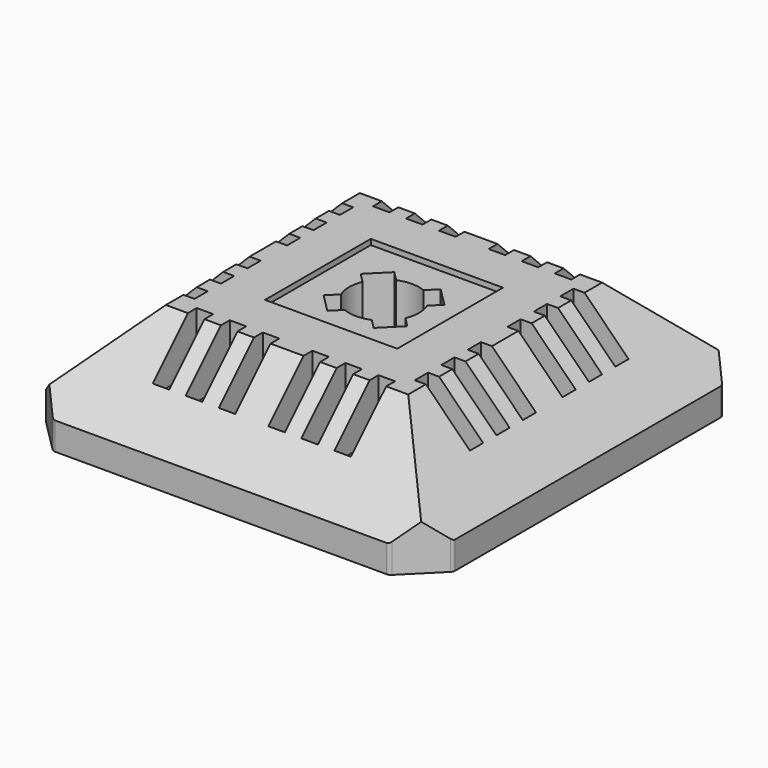
from build123d import *

# Parameters (mm, degrees)
F1_DEPTH  = 20
F3_START  = -15
F3_DEPTH  = 5
F4_R      = 6.35
F5_DEPTH  = 20
F7_DEPTH  = 37
F9_DEPTH  = 37
F10_W     = 10
F10_H     = 3
F10_W_2   = 3
F10_H_2   = 10
F11_DEPTH = 20
F12_DEPTH = 32
F14_DEPTH = 15
F15_W     = 12
F15_H     = 12
F16_DEPTH = 1
F18_DEPTH = 10
F19_R     = 1


with BuildPart() as f1:
    # F0 (on Top) → F1 (new body)
    with BuildSketch(Plane.XY):
        Polygon((-37, 0), (0, 0), (0, 37), (-30.5, 37), (-37, 30.5), align=None)
    extrude(amount=F1_DEPTH)

    # F2 (on face) → F3 (cut)
    with BuildSketch(Plane.XY.offset(20).offset(F3_START)):
        Polygon((-23.2141089603, 26.60822151), (-29.9316233816, 33.3257359313), (-33.3257359313, 29.9316233816), (-26.60822151, 23.2141089603), align=None)
    extrude(amount=-F3_DEPTH, mode=Mode.SUBTRACT)

    # F4 (on face) → F5 (cut, through all)
    with BuildSketch(Plane(origin=(0, 0, 0), x_dir=(1, 0, 0), z_dir=(0, 0, -1))):
        Circle(F4_R)
    extrude(amount=-F5_DEPTH, mode=Mode.SUBTRACT)

    # F6 (on face) → F7 (cut, through all)
    with BuildSketch(Plane.XZ):
        Polygon((-22, 20), (-37, 20), (-37, 5), align=None)
    extrude(amount=-F7_DEPTH, mode=Mode.SUBTRACT)

    # F8 (on face) → F9 (cut, through all)
    with BuildSketch(Plane.YZ):
        Polygon((37, 20), (22, 20), (37, 5), align=None)
    extrude(amount=-F9_DEPTH, mode=Mode.SUBTRACT)

    # F10 (on face) → F11 (cut, through all)
    with BuildSketch(Plane(origin=(0, 0, 0), x_dir=(1, 0, 0), z_dir=(0, 0, -1))):
        with Locations((-25, -4.5)):
            Rectangle(F10_W, F10_H)
        with Locations((-4.5, -25)):
            Rectangle(F10_W_2, F10_H_2)
        with Locations((-25, -10.5)):
            Rectangle(F10_W, F10_H)
        with Locations((-25, -16.5)):
            Rectangle(F10_W, F10_H)
        with Locations((-10.5, -25)):
            Rectangle(F10_W_2, F10_H_2)
        with Locations((-16.5, -25)):
            Rectangle(F10_W_2, F10_H_2)
    extrude(amount=-F11_DEPTH, mode=Mode.SUBTRACT)

    # F12 (cut): a face of the model
    f12_faces = [f1.faces().sort_by_distance(p)[0] for p in [
        (-24.9111652352, 24.9111652352, 2.5),
    ]]
    extrude(f12_faces, amount=-F12_DEPTH, mode=Mode.SUBTRACT)

    # F13 (on face) → F14 (cut, through all)
    with BuildSketch(Plane(origin=(0, 0, 5), x_dir=(1, 0, 0), z_dir=(0, 0, -1))):
        Polygon((-5.4800775542, -2.0859650045), (-7.6013978978, -4.2072853481), (-4.2072853481, -7.6013978978), (-2.0859650045, -5.4800775542), align=None)
    extrude(amount=-F14_DEPTH, mode=Mode.SUBTRACT)

    # F15 (on face) → F16 (cut)
    with BuildSketch(Plane.XY.offset(20)):
        with Locations((-6, 6)):
            Rectangle(F15_W, F15_H)
    extrude(amount=-F16_DEPTH, mode=Mode.SUBTRACT)

    # F17 (on face) → F18 (join)
    with BuildSketch(Plane(origin=(0, 0, 0), x_dir=(1, 0, 0), z_dir=(0, 0, -1))):
        with BuildLine():
            ThreePointArc((-27.9379781838, -6), (-28.2174279403, -4.5063716486), (-28.4170833303, -3))
            Line((-28.4170833303, -3), (-30, -3))
            Line((-30, -3), (-30, -6))
            Line((-30, -6), (-27.9379781838, -6))
        make_face()
        with BuildLine():
            Line((-27.1206678568, -9), (-30, -9))
            Line((-30, -9), (-30, -12))
            Line((-30, -12), (-25.9331954259, -12))
            ThreePointArc((-25.9331954259, -12), (-26.569307524, -10.5167733975), (-27.1206678568, -9))
        make_face()
        with BuildLine():
            Line((-24.3214026117, -15), (-30, -15))
            Line((-30, -15), (-30, -18))
            Line((-30, -18), (-22.1930310007, -18))
            ThreePointArc((-22.1930310007, -18), (-23.3055386887, -16.5342823076), (-24.3214026117, -15))
        make_face()
        with BuildLine():
            Line((-18, -30), (-15, -30))
            Line((-15, -30), (-15, -24.3214026117))
            ThreePointArc((-15, -24.3214026117), (-16.5342823076, -23.3055386887), (-18, -22.1930310007))
            Line((-18, -22.1930310007), (-18, -30))
        make_face()
        with BuildLine():
            Line((-12, -30), (-9, -30))
            Line((-9, -30), (-9, -27.1206678568))
            ThreePointArc((-9, -27.1206678568), (-10.5167733975, -26.569307524), (-12, -25.9331954259))
            Line((-12, -25.9331954259), (-12, -30))
        make_face()
        with BuildLine():
            Line((-6, -30), (-3, -30))
            Line((-3, -30), (-3, -28.4170833303))
            ThreePointArc((-3, -28.4170833303), (-4.5063716486, -28.2174279403), (-6, -27.9379781838))
            Line((-6, -27.9379781838), (-6, -30))
        make_face()
    extrude(amount=-F18_DEPTH)

    # F19
    f19_edges = [f1.edges().sort_by_distance(p)[0] for p in [
        (-37, 30.5, 2.5),
        (-30.5, 37, 2.5),
    ]]
    fillet(f19_edges, radius=F19_R)

    # F20: F1 across plane


with BuildPart() as f1_1:
    add(f1.part)
    add(f1.part.mirror(Plane.XZ))

    # F21: F1 across plane


with BuildPart() as f1_2:
    add(f1_1.part)
    add(f1_1.part.mirror(Plane.YZ))


solid = f1_2.part
